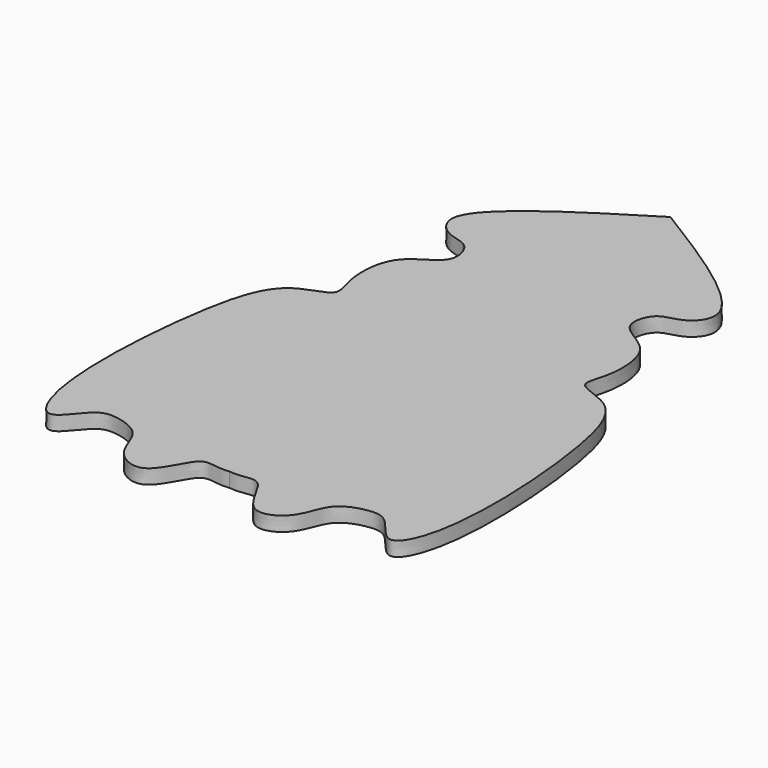
from build123d import *

# Parameters (mm, degrees)
F1_DEPTH = 2


with BuildPart() as f1:
    # F0 (on Top) → F1 (new body)
    with BuildSketch(Plane.XY):
        with BuildLine():
            add(Edge.make_bspline(
                [(0, 37.6537315215), (8.4718708818, 32.4249598237), (21.1274687852, 24.5806027594), (16.3240003108, 19.1537393293), (12.8612019493, 19.2914090997), (11.3471642072, 14.1686147062), (18.0591087907, 12.4267384958), (18.2409471156, 4.5184435506), (16.2008955305, 0.6185797366), (23.1937680867, -0.2151403902), (26.5673203514, -11.1246863538), (27.9171891966, -33.9726609628), (23.5759059822, -42.1664344137), (20.2977645968, -36.2492499201), (17.3442409893, -36.129046381), (13.0479624121, -37.5276520312), (12.4673633616, -42.6961798037), (6.7702808905, -45.3491090479), (4.3534600099, -36.9857748943), (1.9163176341, -38.7999292459), (0, -38.5462684785)],
                knots=[0, 0, 0, 0, 0.1082486747, 0.1526363132, 0.1923887072, 0.2346467498, 0.2873193607, 0.3474595656, 0.3876294222, 0.4363913151, 0.5101588829, 0.6208261782, 0.6745220315, 0.7224622932, 0.7601383091, 0.8044346526, 0.8537362517, 0.8999187772, 0.9555127467, 1, 1, 1, 1], degree=3))
            add(Edge.make_bspline(
                [(0, 37.6537315215), (-8.4718708818, 32.4249598237), (-21.1274687852, 24.5806027594), (-16.3240003108, 19.1537393293), (-12.8612019493, 19.2914090997), (-11.3471642072, 14.1686147062), (-18.0591087907, 12.4267384958), (-18.2409471156, 4.5184435506), (-16.2008955305, 0.6185797366), (-23.1937680867, -0.2151403902), (-26.5673203514, -11.1246863538), (-27.9171891966, -33.9726609628), (-23.5759059822, -42.1664344137), (-20.2977645968, -36.2492499201), (-17.3442409893, -36.129046381), (-13.0479624121, -37.5276520312), (-12.4673633616, -42.6961798037), (-6.7702808905, -45.3491090479), (-4.3534600099, -36.9857748943), (-1.9163176341, -38.7999292459), (0, -38.5462684785)],
                knots=[0, 0, 0, 0, 0.1082486747, 0.1526363132, 0.1923887072, 0.2346467498, 0.2873193607, 0.3474595656, 0.3876294222, 0.4363913151, 0.5101588829, 0.6208261782, 0.6745220315, 0.7224622932, 0.7601383091, 0.8044346526, 0.8537362517, 0.8999187772, 0.9555127467, 1, 1, 1, 1], degree=3))
        make_face()
    extrude(amount=F1_DEPTH)


solid = f1.part
